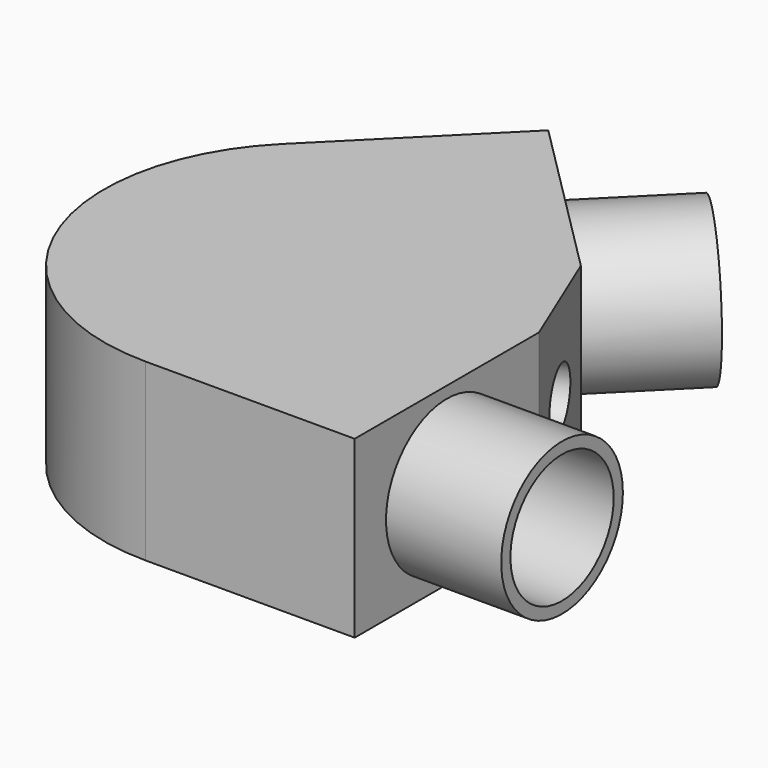
from build123d import *

# Parameters (mm, degrees)
F1_DEPTH = 38
F2_R     = 16.5
F3_DEPTH = 25
F4_R     = 45
F5_R     = 16.5
F6_DEPTH = 25
F7_R     = 6.35
F8_DEPTH = 50
F9_T     = -2.5


with BuildPart() as f1:
    # F0 (on Top) → F1 (new body)
    with BuildSketch(Plane.XY):
        Polygon((85.0829000017, 108.8944443027), (-23.811544301, 0), (130.188455699, 0), (130.188455699, 50), (120.4382390611, 73.5391052434), align=None)
    extrude(amount=F1_DEPTH)

    # F2 (on face) → F3 (join)
    with BuildSketch(Plane.YZ.offset(130.188455699)):
        with Locations((25, 19)):
            Circle(F2_R)
    extrude(amount=F3_DEPTH)

    # F4
    f4_edges = [f1.edges().sort_by_distance(p)[0] for p in [
        (-23.811544, 0, 19),
    ]]
    fillet(f4_edges, radius=F4_R)

    # F5 (on face) → F6 (join)
    with BuildSketch(Plane(origin=(96.9886721522, 96.9886721522, 0), x_dir=(-0.7071067812, 0.7071067812, 0), z_dir=(0.7071067812, 0.7071067812, 0))):
        with Locations((-8.1626955542, 19)):
            Circle(F5_R)
    extrude(amount=F6_DEPTH)

    # F7 (on face) → F8 (cut)
    with BuildSketch(Plane(origin=(128.8004673077, 53.3509003988, 0), x_dir=(-0.3826834324, 0.9238795325, 0), z_dir=(0.9238795325, 0.3826834324, 0))):
        with Locations((9.112283503, 19)):
            Circle(F7_R)
    extrude(amount=-F8_DEPTH, mode=Mode.SUBTRACT)

    # F9
    f9_openings = [f1.faces().sort_by_distance(p)[0] for p in [
        (155.188456, 25, 19),
        (120.438239, 108.894444, 19),
    ]]
    offset(amount=F9_T, openings=f9_openings, kind=Kind.INTERSECTION)


solid = f1.part
